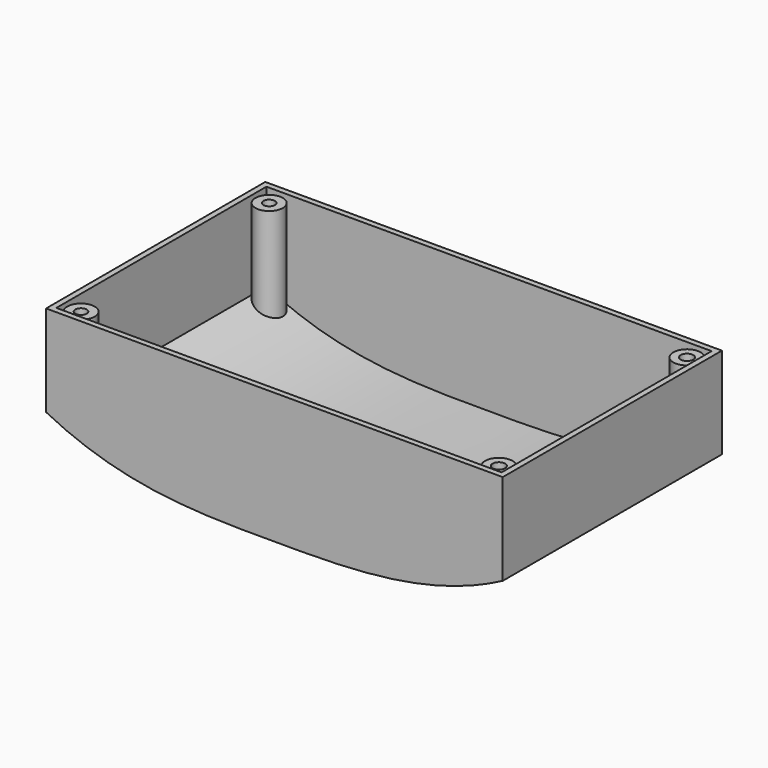
from build123d import *

# Parameters (mm, degrees)
F1_DEPTH = 60
F2_T     = -2.5
F3_R     = 6
F3_R_2   = 2.5
F3_R_3   = 2.75


with BuildPart() as f1:
    # F0 (on Front) → F1 (new body, symmetric)
    with BuildSketch(Plane.XZ):
        with BuildLine():
            Line((67.5986483693, 1.9047641754), (-132.4013516307, 1.9047641754))
            Line((-132.4013516307, 1.9047641754), (-132.4013516307, -38.0952358246))
            add(Edge.make_bspline(
                [(-132.4013516307, -38.0952358246), (-98.2385128736, -55.5124059319), (-32.9006582499, -55.5124059319), (34.4344228506, -55.5124059319), (67.5986483693, -38.0952358246)],
                knots=[0, 0, 0, 0, 0.5, 1, 1, 1, 1], degree=3))
            Line((67.5986483693, -38.0952358246), (67.5986483693, 1.9047641754))
        make_face()
    extrude(amount=F1_DEPTH, both=True)

    # F2
    f2_openings = [f1.faces().sort_by_distance(p)[0] for p in [
        (-32.401352, 0, 1.904764),
    ]]
    offset(amount=F2_T, openings=f2_openings, kind=Kind.INTERSECTION)


with BuildPart() as f4:
    # F3 (on Top) → F4 (new body, up to the next surface of F1)
    with BuildSketch(Plane.XY):
        with Locations((-123.9013516307, 51.5)):
            Circle(F3_R)
        with Locations((-123.9013516307, 51.5)):
            Circle(F3_R_2, mode=Mode.SUBTRACT)
    extrude(until=Until.NEXT, target=f1.part, dir=(0, 0, -1))


with BuildPart() as f4b:
    # F3 (on Top) → F4, piece 2 (new body, up to the next surface of F1)
    with BuildSketch(Plane.XY):
        with Locations((59.0986483693, 51.5)):
            Circle(F3_R)
        with Locations((59.0986483693, 51.5)):
            Circle(F3_R_3, mode=Mode.SUBTRACT)
    extrude(until=Until.NEXT, target=f1.part, dir=(0, 0, -1))


with BuildPart() as f4c:
    # F3 (on Top) → F4, piece 3 (new body, up to the next surface of F1)
    with BuildSketch(Plane.XY):
        with Locations((59.0986483693, -51.5)):
            Circle(F3_R)
        with Locations((59.0986483693, -51.5)):
            Circle(F3_R_3, mode=Mode.SUBTRACT)
    extrude(until=Until.NEXT, target=f1.part, dir=(0, 0, -1))


with BuildPart() as f4d:
    # F3 (on Top) → F4, piece 4 (new body, up to the next surface of F1)
    with BuildSketch(Plane.XY):
        with Locations((-123.9013516307, -51.5)):
            Circle(F3_R)
        with Locations((-123.9013516307, -51.5)):
            Circle(F3_R_2, mode=Mode.SUBTRACT)
    extrude(until=Until.NEXT, target=f1.part, dir=(0, 0, -1))


solid = Compound([f1.part, f4.part, f4b.part, f4c.part, f4d.part])
